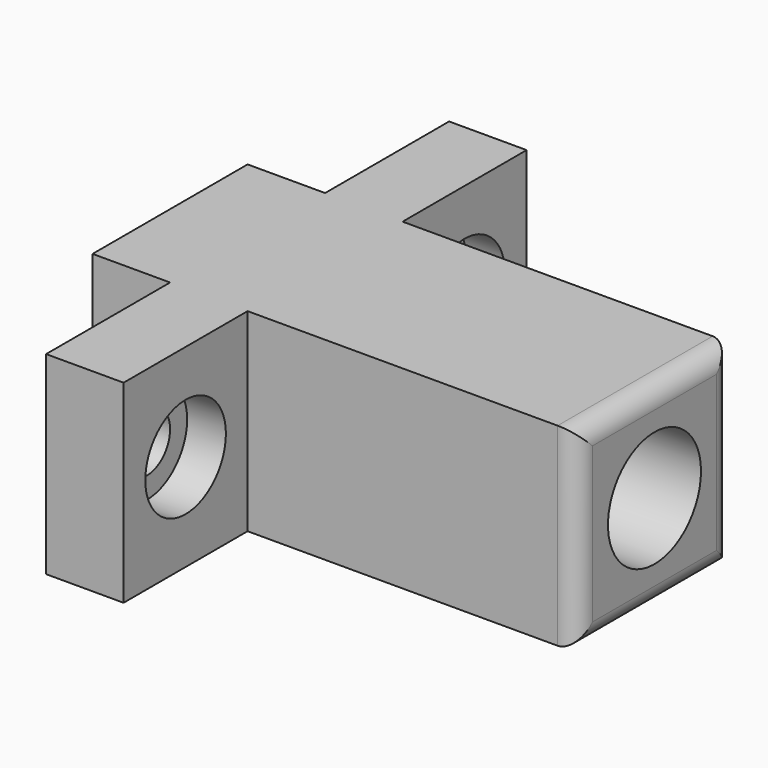
from build123d import *

# Parameters (mm, degrees)
BOX_W           = 25
BOX_H           = 10
BOX_DEPTH       = 10
SKETCH_W        = 4
SKETCH_H        = 10
PAD_DEPTH       = 8
PAD_DEPTH_BACK  = 18
SKETCH001_R     = 1.5
POCKET_DEPTH    = 25.001
SKETCH002_R     = 3
POCKET001_DEPTH = 20
SKETCH003_R     = 1.5
POCKET002_DEPTH = 8.001
SKETCH004_R     = 2.6
POCKET003_DEPTH = 2
FILLET_R        = 1


with BuildPart() as part:
    # Box → Box (new body)
    with BuildSketch(Plane.XY):
        with Locations((12.5, 5)):
            Rectangle(BOX_W, BOX_H)
    extrude(amount=BOX_DEPTH)

    # Sketch → Pad (new body, two sides)
    with BuildSketch(Plane.XZ) as pad_sk:
        with Locations((6, 5)):
            Rectangle(SKETCH_W, SKETCH_H)
    extrude(amount=PAD_DEPTH)
    extrude(pad_sk.sketch, amount=-PAD_DEPTH_BACK)

    # Sketch001 → Pocket (cut, through all)
    with BuildSketch(Plane.YZ.offset(25)):
        with Locations((5, 5)):
            Circle(SKETCH001_R)
    extrude(amount=-POCKET_DEPTH, mode=Mode.SUBTRACT)

    # Sketch002 → Pocket001 (cut)
    with BuildSketch(Plane.YZ.offset(25)):
        with Locations((5, 5)):
            Circle(SKETCH002_R)
    extrude(amount=-POCKET001_DEPTH, mode=Mode.SUBTRACT)

    # Sketch003 → Pocket002 (cut, through all)
    with BuildSketch(Plane.YZ.offset(8)):
        with Locations((-4, 5)):
            Circle(SKETCH003_R)
        with Locations((14, 5)):
            Circle(SKETCH003_R)
    extrude(amount=-POCKET002_DEPTH, mode=Mode.SUBTRACT)

    # Sketch004 → Pocket003 (cut)
    with BuildSketch(Plane.YZ.offset(8)):
        with Locations((-4, 5)):
            Circle(SKETCH004_R)
        with Locations((14, 5)):
            Circle(SKETCH004_R)
    extrude(amount=-POCKET003_DEPTH, mode=Mode.SUBTRACT)

    # Fillet
    fillet_edges = [part.edges().sort_by_distance(p)[0] for p in [
        (25, 5, 10),
        (25, 0, 5),
        (25, 5, 0),
        (25, 10, 5),
    ]]
    fillet(fillet_edges, radius=FILLET_R)


solid = part.part
